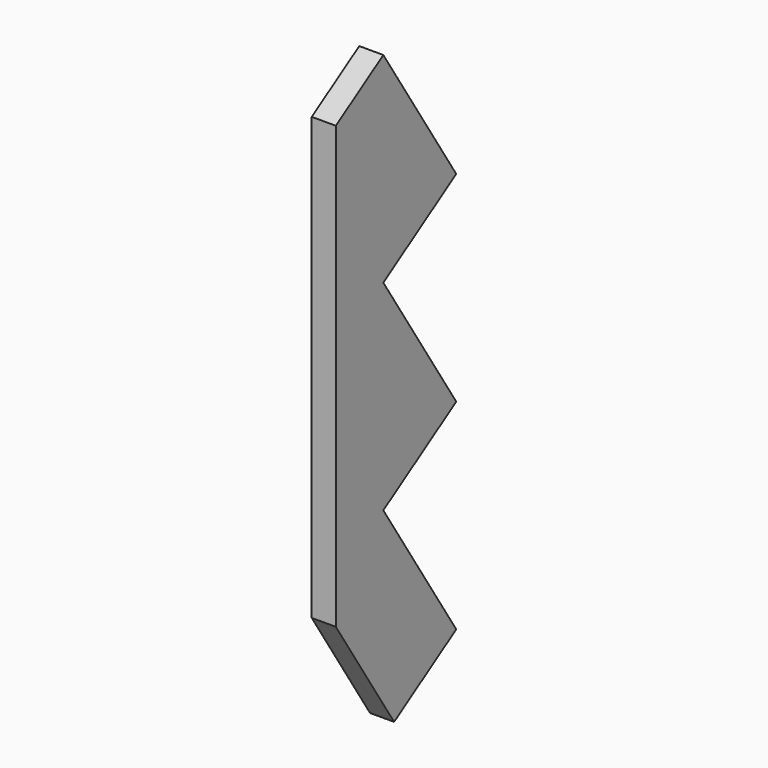
from build123d import *

# Parameters (mm, degrees)
F0_W     = 38.1
F0_H     = 238.125
F1_DEPTH = 990.6
F3_DEPTH = 38.101


with BuildPart() as f1:
    # F0 (on Top) → F1 (new body)
    with BuildSketch(Plane.XY):
        with Locations((19.05, 119.0625)):
            Rectangle(F0_W, F0_H)
    extrude(amount=F1_DEPTH)

    # F2 (on face) → F3 (cut, through all)
    with BuildSketch(Plane.YZ.offset(38.1)):
        Polygon((115.270884, 0), (0, 179.310263), (-215.229422, 179.310263), (-215.229422, -479.180909), (438.821025, -479.180909), (438.821025, 1649.130165), (-444.017858, 1649.130165), (-444.017858, 591.622803), (93.90495, 937.430322), (238.125, 713.088023), (93.90495, 620.375134), (238.125, 396.032835), (93.90495, 303.319946), (238.125, 78.977646), align=None)
    extrude(amount=-F3_DEPTH, mode=Mode.SUBTRACT)


solid = f1.part
